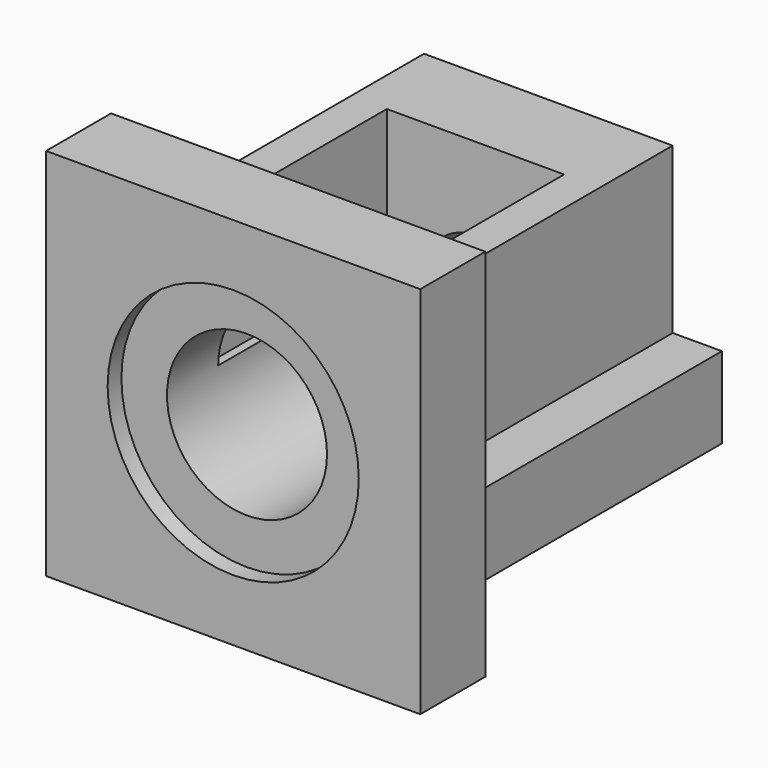
from build123d import *

# Parameters (mm, degrees)
F0_W      = 152
F0_H      = 152
F1_DEPTH  = 33
F3_DEPTH  = 127
F4_R      = 20.5
F5_DEPTH  = 156
F4_R_2    = 32.5
F6_DEPTH  = 119
F4_R_3    = 51
F7_DEPTH  = 7
F8_R      = 33.5
F9_DEPTH  = 18
F10_W     = 72
F10_H     = 90
F11_DEPTH = 54
F13_DEPTH = 14.5
F15_DEPTH = 14.5


with BuildPart() as f1:
    # F0 (on Front) → F1 (new body)
    with BuildSketch(Plane.XZ):
        Rectangle(F0_W, F0_H)
    extrude(amount=-F1_DEPTH)

    # F2 (on face) → F3 (join)
    with BuildSketch(Plane(origin=(0, 33, 0), x_dir=(-1, 0, 0), z_dir=(0, 1, 0))):
        Polygon((50.5, 54), (-50.5, 54), (-50.5, -13), (-70.5, -13), (-70.5, -46), (70.5, -46), (70.5, -13), (50.5, -13), align=None)
    extrude(amount=F3_DEPTH)

    # F4 (on Front) → F5 (cut)
    with BuildSketch(Plane.XZ):
        Circle(F4_R)
    extrude(amount=-F5_DEPTH, mode=Mode.SUBTRACT)

    # F4 (on Front) → F6 (cut)
    with BuildSketch(Plane.XZ):
        Circle(F4_R_2)
        Circle(F4_R, mode=Mode.SUBTRACT)
        Circle(F4_R)
    extrude(amount=-F6_DEPTH, mode=Mode.SUBTRACT)

    # F4 (on Front) → F7 (cut)
    with BuildSketch(Plane.XZ):
        Circle(F4_R_3)
        Circle(F4_R_2, mode=Mode.SUBTRACT)
        Circle(F4_R_3)
        Circle(F4_R_2, mode=Mode.SUBTRACT)
    extrude(amount=-F7_DEPTH, mode=Mode.SUBTRACT)

    # F8 (on face) → F9 (cut)
    with BuildSketch(Plane(origin=(0, 160, 0), x_dir=(-1, 0, 0), z_dir=(0, 1, 0))):
        Circle(F8_R)
    extrude(amount=-F9_DEPTH, mode=Mode.SUBTRACT)

    # F10 (on face) → F11 (cut)
    with BuildSketch(Plane.XY.offset(54)):
        with Locations((0, 78)):
            Rectangle(F10_W, F10_H)
    extrude(amount=-F11_DEPTH, mode=Mode.SUBTRACT)

    # F12 (on face) → F13 (join)
    with BuildSketch(Plane.YZ.offset(50.5)):
        Polygon((33, 67.5), (33, 54), (58, 54), (43, 67.5), align=None)
    extrude(amount=-F13_DEPTH)

    # F14 (on face) → F15 (join)
    with BuildSketch(Plane(origin=(-50.5, 0, 0), x_dir=(0, -1, 0), z_dir=(-1, 0, 0))):
        Polygon((-58, 54), (-33, 54), (-33, 67.5), (-43, 67.5), align=None)
    extrude(amount=-F15_DEPTH)


solid = f1.part
